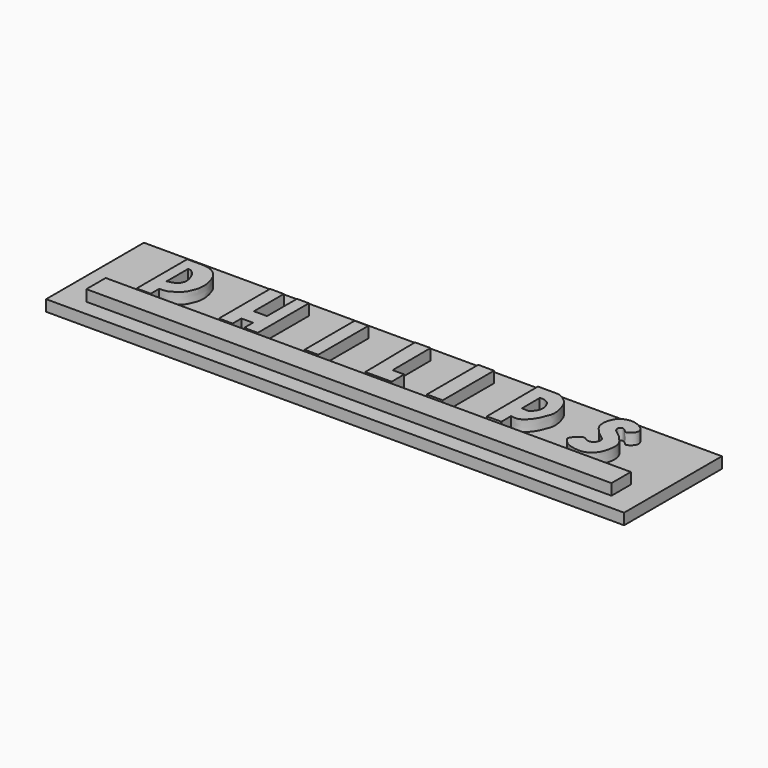
from build123d import *

# Parameters (mm, degrees)
F0_W     = 52
F0_H     = 11
F1_DEPTH = 1
F2_W     = 1.4234498572
F2_H     = 5.771971931
F2_W_2   = 1.2315623462
F2_H_2   = 5.6320009753
F2_W_3   = 47.2417045385
F2_H_3   = 2.1759883966
F3_DEPTH = 1


with BuildPart() as f1:
    # F0 (on Top) → F1 (new body)
    with BuildSketch(Plane.XY):
        with Locations((12.1711598933, 3.5179169215)):
            Rectangle(F0_W, F0_H)
    extrude(amount=F1_DEPTH)

    # F2 (on face) → F3 (join)
    with BuildSketch(Plane.XY.offset(1)):
        with BuildLine():
            Line((-8.6810728535, 7.4559538625), (-8.6810728535, 1.7665559426))
            Line((-8.6810728535, 1.7665559426), (-7.4095181189, 1.7665559426))
            Line((-7.4095181189, 1.7665559426), (-7.4095181189, 2.7123566251))
            add(Edge.make_bspline(
                [(-8.6810728535, 7.4559538625), (-8.5680510591, 7.4560327494), (-8.3282629596, 7.455729442), (-7.9375436883, 7.45667137), (-7.5109521559, 7.4534282198), (-7.2101244349, 7.4640382822), (-6.8431465693, 7.420254947), (-6.4067147095, 7.2692755421), (-6.0967300261, 7.0835848649), (-5.8286763748, 6.8216608321), (-5.6133135599, 6.5339902549), (-5.4327373901, 6.0790876514), (-5.3384061591, 5.7637954389), (-5.2117823146, 5.2480834069), (-5.2525600575, 4.7385748886), (-5.2894746628, 4.353933142), (-5.497480762, 3.9136503185), (-5.6021081024, 3.6299914185), (-5.8542362388, 3.3471657412), (-5.9908162337, 3.2181966012), (-6.2940559647, 3.0061514979), (-6.4782892916, 2.9165460729), (-6.7556552402, 2.7426222092), (-6.9132734754, 2.7697855466), (-7.0913457329, 2.7012895313), (-7.2953137057, 2.7083828536), (-7.4095181189, 2.7123566251)],
                knots=[0, 0, 0, 0, 0.0417218025, 0.0863802041, 0.1324130307, 0.1710883711, 0.2138026806, 0.2618234655, 0.3044502978, 0.3469638493, 0.3897775173, 0.4384933562, 0.4796685939, 0.5306929192, 0.5812503366, 0.6254885373, 0.6739589708, 0.713820749, 0.7559109632, 0.7877631793, 0.8295506341, 0.863375467, 0.9025286725, 0.9299236019, 0.9597957676, 1, 1, 1, 1], degree=3))
        make_face()
        with BuildLine():
            Line((-7.711332757, 3.9403666742), (-7.711332757, 6.3304463401))
            add(Edge.make_bspline(
                [(-7.711332757, 6.3304463401), (-7.6380281681, 6.3462068662), (-7.4854367522, 6.3723372302), (-7.1306213556, 6.0838727827), (-6.9488513916, 5.8403672442), (-6.7660336237, 5.431955854), (-6.6956598208, 5.1866391222), (-6.6524440822, 4.9280718903), (-6.6615537169, 4.631589897), (-6.8152480606, 4.2938101013), (-7.1545063308, 4.0463230342), (-7.5189176208, 3.9785436148), (-7.711332757, 3.9403666742)],
                knots=[0, 0, 0, 0, 0.078753941, 0.1891523546, 0.2867125132, 0.3986218311, 0.4853786817, 0.5707599634, 0.6628275194, 0.7639530461, 0.8716929224, 1, 1, 1, 1], degree=3))
        make_face(mode=Mode.SUBTRACT)
        Polygon((-1.3143211254, 7.5673949283), (-1.3143211254, 1.8111537833), (-0.0798860092, 1.8111537833), (-0.0798860092, 2.7983480289), (0.9607079555, 2.7983480289), (0.9607079555, 1.8111537833), (1.1895181702, 1.8111537833), (2.1774004563, 1.8167208484), (2.1774004563, 7.5673949283), (1.1024678242, 7.5673949283), (1.1024678242, 4.2000194702), (-0.0798860092, 4.2000194702), (-0.0798860092, 7.5673949283), align=None)
        with Locations((18.0277478164, 4.7960399328)):
            Rectangle(F2_W, F2_H)
        with BuildLine():
            Line((22.6545128971, 7.7231605537), (22.687146436, 1.9323005009))
            Line((22.687146436, 1.9323005009), (23.9947285176, 1.9396691871))
            Line((23.9947285176, 1.9396691871), (23.9884722978, 3.0498427805))
            add(Edge.make_bspline(
                [(22.6545128971, 7.7231605537), (22.8560900818, 7.7227823703), (23.2327242711, 7.7219841766), (23.6909951316, 7.7267752133), (23.9793824377, 7.7112292477), (24.4915658414, 7.7905706665), (25.1659087519, 7.4197956799), (25.6189600223, 7.0122603084), (25.8693289928, 6.4747476473), (26.049132536, 5.8923968001), (26.1058126655, 5.4413021218), (26.0899777886, 5.0167600835), (25.9157795716, 4.5705081446), (25.7751484075, 4.2138911663), (25.5682187558, 3.8151296982), (25.2783286091, 3.4323897251), (24.8959214359, 3.0841513654), (24.4921082595, 2.9534103304), (24.1623862688, 3.0165429768), (23.9884722978, 3.0498427805)],
                knots=[0, 0, 0, 0, 0.0646728852, 0.1206796931, 0.1653131975, 0.2240090272, 0.2969451323, 0.3624782362, 0.426574626, 0.4921405426, 0.5485051206, 0.6028019784, 0.6604345309, 0.7126907578, 0.7683760226, 0.8270521958, 0.8868153069, 0.9401755265, 1, 1, 1, 1], degree=3))
        make_face()
        with BuildLine():
            Line((23.8520704395, 4.4201976364), (23.8406602293, 6.4449529164))
            add(Edge.make_bspline(
                [(23.8406602293, 6.4449529164), (23.9750576025, 6.4668569791), (24.2268516988, 6.4737990557), (24.6489752542, 6.2991960076), (24.9036894691, 5.8852304493), (25.0607048802, 5.3311282804), (24.8688894668, 4.7936998995), (24.7097095726, 4.6409696395), (24.4430975934, 4.3695779186), (24.1940338722, 4.4347926542), (23.9706280867, 4.4252082423), (23.8520704395, 4.4201976364)],
                knots=[0, 0, 0, 0, 0.1112201646, 0.2278939731, 0.3506672767, 0.4868413186, 0.6169897561, 0.7033562798, 0.8076594433, 0.8949111354, 1, 1, 1, 1], degree=3))
        make_face(mode=Mode.SUBTRACT)
        Polygon((11.710806131, 7.5754484088), (11.8049912959, 1.8709757185), (12.232859619, 1.8733869074), (14.1741974096, 1.8843270306), (14.1662359319, 3.2971006594), (13.1270440814, 3.2912444468), (13.1028568734, 7.5832931057), align=None)
        Polygon((2.1774004563, 1.8167208484), (1.1895181702, 1.8111537833), (2.1774004563, 1.8111537833), align=None)
        with Locations((6.9678220898, 4.6736719087)):
            Rectangle(F2_W_2, F2_H_2)
        with BuildLine():
            add(Edge.make_bspline(
                [(30.2675385028, 7.5037772767), (30.1824850841, 7.4497499792), (30.0265163384, 7.3097160596), (29.8899882721, 7.0303846456), (29.755953953, 6.70723605), (29.6962430109, 6.3653703068), (29.6996022205, 5.9778919099), (29.8235480593, 5.5949323699), (30.0892534628, 5.2567462501), (30.3843992709, 4.9282492034), (30.6868308195, 4.6826631017), (31.0213151957, 4.4560820747), (31.2789444885, 4.1539635477), (31.1513831405, 3.7788328659), (30.9900064643, 3.5373950074), (30.6374890037, 3.4323494647), (30.2984334547, 3.5197593128), (29.98666478, 3.8999869558), (29.0157896874, 2.9549310897), (29.3658678256, 2.6053704793), (29.7569054824, 2.1304016508), (30.8899791448, 1.8653112401), (31.707847135, 2.0297876276), (32.2513704096, 2.5724322724), (32.4603449706, 3.1269895477), (32.5746640915, 3.6357240849), (32.6031051629, 4.1305835962), (32.4624069773, 4.6302825117), (32.17174024, 4.9728796601), (31.7075202631, 5.524117738), (31.1335199238, 5.8509943665), (30.9536732945, 6.2144315958), (31.0922159969, 6.4930656513), (31.3543279873, 6.5189432509), (31.6391361833, 6.2926340891), (31.7457738129, 6.0891451148), (32.2164445492, 6.3043426156), (32.5285408, 6.7963023286), (32.2936114378, 7.2633275237), (31.8853720044, 7.5105274391), (31.5519150133, 7.6832983934), (30.9755277871, 7.7779752007), (30.5606105125, 7.6436156635), (30.3545530299, 7.5590503018), (30.2675385028, 7.5037772767)],
                knots=[0, 0, 0, 0, 0.0196383628, 0.039484576, 0.0605241176, 0.0815376503, 0.103613774, 0.1260304332, 0.1494139145, 0.1731261301, 0.1954071194, 0.218238056, 0.2396473387, 0.2609789929, 0.2800148452, 0.300806045, 0.321496162, 0.343020326, 0.3799928462, 0.4015340823, 0.4291998705, 0.4670538333, 0.4994759809, 0.5297456353, 0.5570774867, 0.5827029706, 0.6078100832, 0.6328827066, 0.6567357166, 0.687094555, 0.7162283344, 0.7375599876, 0.7555681545, 0.7725326286, 0.7937256831, 0.8089530108, 0.8325122414, 0.8589270595, 0.8830992084, 0.9074131925, 0.9294905232, 0.9563495781, 0.9799088282, 1, 1, 1, 1], degree=3))
        make_face()
        with Locations((12.2486529872, 0.5625631893)):
            Rectangle(F2_W_3, F2_H_3)
    extrude(amount=F3_DEPTH)


solid = f1.part
